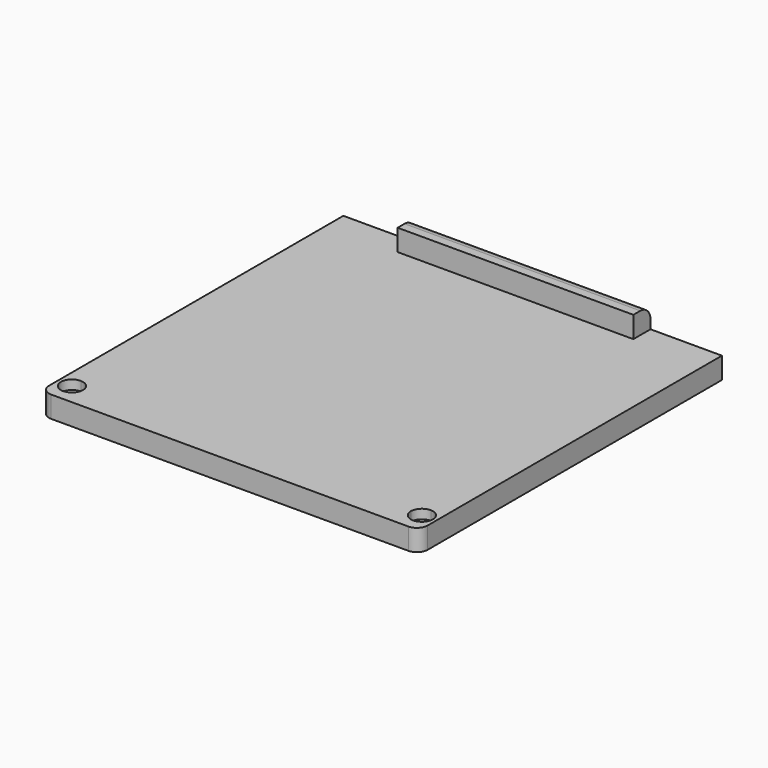
from build123d import *

# Parameters (mm, degrees)
F0_W     = 53
F0_H     = 53
F1_DEPTH = 3
F3_DEPTH = 1.3
F4_W     = 33
F4_H     = 3
F5_DEPTH = 3
F6_R     = 1.8
F7_R     = 1.5


with BuildPart() as f1:
    # F0 (on Top) → F1 (new body)
    with BuildSketch(Plane.XY):
        with Locations((0.098538, 0.495021)):
            Rectangle(F0_W, F0_H)
    extrude(amount=F1_DEPTH)

    # F2 (on face) → F3 (cut)
    with BuildSketch(Plane.XY.offset(3)):
        with BuildLine():
            Line((-24.401462, -23.004979), (-24.401462, -21.454979))
            ThreePointArc((-24.401462, -21.454979), (-25.497478, -24.100995), (-22.851462, -23.004979))
            Line((-22.851462, -23.004979), (-24.401462, -23.004979))
        make_face()
        with BuildLine():
            ThreePointArc((26.148538, -23.004979), (25.694553, -21.908964), (24.598538, -21.454979))
            Line((24.598538, -21.454979), (24.598538, -23.004979))
            Line((24.598538, -23.004979), (23.048538, -23.004979))
            ThreePointArc((23.048538, -23.004979), (24.598538, -24.554979), (26.148538, -23.004979))
        make_face()
        with BuildLine():
            Line((24.598538, -23.004979), (24.598538, -21.454979))
            ThreePointArc((24.598538, -21.454979), (23.502522, -21.908964), (23.048538, -23.004979))
            Line((23.048538, -23.004979), (24.598538, -23.004979))
        make_face()
        with BuildLine():
            ThreePointArc((-22.851462, -23.004979), (-23.305447, -21.908964), (-24.401462, -21.454979))
            Line((-24.401462, -21.454979), (-24.401462, -23.004979))
            Line((-24.401462, -23.004979), (-22.851462, -23.004979))
        make_face()
    extrude(amount=-F3_DEPTH, mode=Mode.SUBTRACT)

    # F4 (on face) → F5 (join)
    with BuildSketch(Plane.XY.offset(3)):
        with Locations((0.098538, 25.495021)):
            Rectangle(F4_W, F4_H)
    extrude(amount=F5_DEPTH)

    # F6
    f6_edges = [f1.edges().sort_by_distance(p)[0] for p in [
        (0.098538, 26.995021, 6),
    ]]
    fillet(f6_edges, radius=F6_R)

    # F7
    f7_edges = [f1.edges().sort_by_distance(p)[0] for p in [
        (26.598538, -26.004979, 1.5),
        (-26.401462, -26.004979, 1.5),
    ]]
    fillet(f7_edges, radius=F7_R)


solid = f1.part
